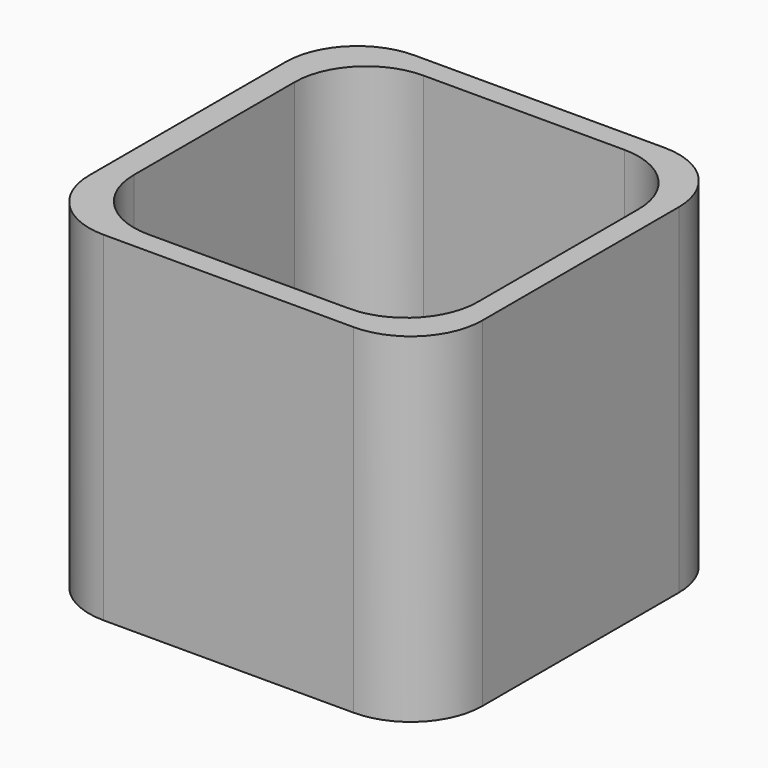
from build123d import *

# Parameters (mm, degrees)
F1_DEPTH = 38
F2_DEPTH = 1.5


with BuildPart() as f1:
    # F0 (on Top) → F1 (new body)
    with BuildSketch(Plane.XY):
        with BuildLine():
            Line((12.64862, 19.110199), (-15.35138, 19.110199))
            ThreePointArc((-15.35138, 19.110199), (-21.008234, 16.767053), (-23.35138, 11.110199))
            Line((-23.35138, 11.110199), (-23.35138, -16.389801))
            ThreePointArc((-23.35138, -16.389801), (-21.008234, -22.046656), (-15.35138, -24.389801))
            Line((-15.35138, -24.389801), (12.64862, -24.389801))
            ThreePointArc((12.64862, -24.389801), (18.305474, -22.046656), (20.64862, -16.389801))
            Line((20.64862, -16.389801), (20.64862, 11.110199))
            ThreePointArc((20.64862, 11.110199), (18.305474, 16.767053), (12.64862, 19.110199))
        make_face()
        with BuildLine():
            ThreePointArc((-20.35138, 8.610199), (-18.008234, 14.267053), (-12.35138, 16.610199))
            Line((-12.35138, 16.610199), (10.14862, 16.610199))
            ThreePointArc((10.14862, 16.610199), (15.805474, 14.267053), (18.14862, 8.610199))
            Line((18.14862, 8.610199), (18.14862, -13.889801))
            ThreePointArc((18.14862, -13.889801), (15.805474, -19.546656), (10.14862, -21.889801))
            Line((10.14862, -21.889801), (4.39862, -21.889801))
            Line((4.39862, -21.889801), (-6.60138, -21.889801))
            Line((-6.60138, -21.889801), (-12.35138, -21.889801))
            ThreePointArc((-12.35138, -21.889801), (-18.008234, -19.546656), (-20.35138, -13.889801))
            Line((-20.35138, -13.889801), (-20.35138, 8.610199))
        make_face(mode=Mode.SUBTRACT)
    extrude(amount=F1_DEPTH)

    # F0 (on Top) → F2 (join)
    with BuildSketch(Plane.XY):
        with BuildLine():
            Line((10.14862, 16.610199), (-12.35138, 16.610199))
            ThreePointArc((-12.35138, 16.610199), (-18.008234, 14.267053), (-20.35138, 8.610199))
            Line((-20.35138, 8.610199), (-20.35138, -13.889801))
            ThreePointArc((-20.35138, -13.889801), (-18.008234, -19.546656), (-12.35138, -21.889801))
            Line((-12.35138, -21.889801), (-6.60138, -21.889801))
            Line((-6.60138, -21.889801), (-6.60138, -11.889801))
            Line((-6.60138, -11.889801), (4.39862, -11.889801))
            Line((4.39862, -11.889801), (4.39862, -21.889801))
            Line((4.39862, -21.889801), (10.14862, -21.889801))
            ThreePointArc((10.14862, -21.889801), (15.805474, -19.546656), (18.14862, -13.889801))
            Line((18.14862, -13.889801), (18.14862, 8.610199))
            ThreePointArc((18.14862, 8.610199), (15.805474, 14.267053), (10.14862, 16.610199))
        make_face()
    extrude(amount=F2_DEPTH)


solid = f1.part
